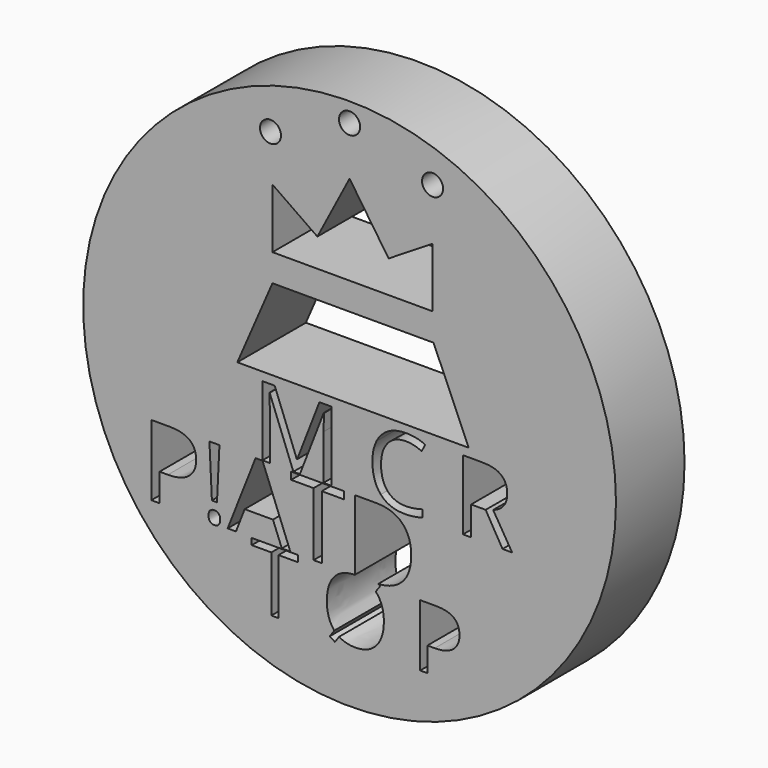
from build123d import *

# Parameters (mm, degrees)
F0_R     = 56.04879104
F0_R_2   = 2.2124122906
F0_R_3   = 2.2219292553
F0_R_4   = 2.2124088317
F1_DEPTH = 18.034


with BuildPart() as f1:
    # F0 (on Front) → F1 (new body)
    with BuildSketch(Plane.XZ):
        Circle(F0_R)
        with BuildLine():
            add(Edge.make_bspline(
                [(-29.3230151163, -31.4044240319), (-29.669589777, -31.0838831485), (-29.669589777, -30.3516831611)],
                knots=[0, 0, 0, 1, 1, 1], degree=2))
            add(Edge.make_bspline(
                [(-29.669589777, -30.3516831611), (-29.669589777, -28.9686387405), (-28.4492564646, -28.9686387405)],
                knots=[0, 0, 0, 1, 1, 1], degree=2))
            add(Edge.make_bspline(
                [(-28.4492564646, -28.9686387405), (-27.8602422525, -28.9686387405), (-27.5397013692, -29.3233489566)],
                knots=[0, 0, 0, 1, 1, 1], degree=2))
            add(Edge.make_bspline(
                [(-27.5397013692, -29.3233489566), (-27.2191604858, -29.6780591727), (-27.2191604858, -30.3516831611)],
                knots=[0, 0, 0, 1, 1, 1], degree=2))
            add(Edge.make_bspline(
                [(-27.2191604858, -30.3516831611), (-27.2191604858, -31.0025275944), (-27.5445827024, -31.3637462548)],
                knots=[0, 0, 0, 1, 1, 1], degree=2))
            add(Edge.make_bspline(
                [(-27.5445827024, -31.3637462548), (-27.870004919, -31.7249649153), (-28.4492564646, -31.7249649153)],
                knots=[0, 0, 0, 1, 1, 1], degree=2))
            add(Edge.make_bspline(
                [(-28.4492564646, -31.7249649153), (-28.9764404556, -31.7249649153), (-29.3230151163, -31.4044240319)],
                knots=[0, 0, 0, 1, 1, 1], degree=2))
        make_face(mode=Mode.SUBTRACT)
        Polygon((-14.9441008471, -32.8867225766), (-14.9441008471, -44.575534761), (-16.459053073, -44.575534761), (-16.459053073, -32.8867225766), (-20.5873692143, -32.8867225766), (-20.5873692143, -31.5400983757), (-10.8157847058, -31.5400983757), (-10.8157847058, -32.8867225766), align=None, mode=Mode.SUBTRACT)
        with BuildLine():
            add(Edge.make_bspline(
                [(-37.853958525, -16.5602896207), (-32.2827301764, -16.5602896207), (-32.2827301764, -20.891659324)],
                knots=[0, 0, 0, 1, 1, 1], degree=2))
            add(Edge.make_bspline(
                [(-32.2827301764, -20.891659324), (-32.2827301764, -23.1500895073), (-33.8236043721, -24.3655414864)],
                knots=[0, 0, 0, 1, 1, 1], degree=2))
            add(Edge.make_bspline(
                [(-33.8236043721, -24.3655414864), (-35.3644785678, -25.5809934655), (-38.2314482963, -25.5809934655)],
                knots=[0, 0, 0, 1, 1, 1], degree=2))
            Line((-38.2314482963, -25.5809934655), (-39.9822198217, -25.5809934655))
            Line((-39.9822198217, -25.5809934655), (-39.9822198217, -31.4288306981))
            Line((-39.9822198217, -31.4288306981), (-41.7102117919, -31.4288306981))
            Line((-41.7102117919, -31.4288306981), (-41.7102117919, -16.5602896207))
            Line((-41.7102117919, -16.5602896207), (-37.853958525, -16.5602896207))
        make_face(mode=Mode.SUBTRACT)
        Polygon((-27.3818715941, -16.5602896207), (-27.8992929185, -27.3317649909), (-28.9666777891, -27.3317649909), (-29.4873533357, -16.5602896207), align=None, mode=Mode.SUBTRACT)
        Polygon((-12.4742798507, -31.4288306981), (-14.2641020421, -31.4288306981), (-16.1157544547, -26.7004458906), (-22.074235241, -26.7004458906), (-23.9031080984, -31.4288306981), (-25.6538796239, -31.4288306981), (-19.7767543917, -16.4984593996), (-18.3221170834, -16.4984593996), align=None, mode=Mode.SUBTRACT)
        Polygon((-5.8551919647, -18.0962824832), (-5.8551919647, -31.4288306981), (-7.5831839349, -31.4288306981), (-7.5831839349, -18.0962824832), (-12.2920434094, -18.0962824832), (-12.2920434094, -16.5602896207), (-1.1463324902, -16.5602896207), (-1.1463324902, -18.0962824832), align=None, mode=Mode.SUBTRACT)
        with BuildLine():
            Line((-10.4570211338, -16.4333749563), (-11.8307485564, -16.4333749563))
            Line((-11.8307485564, -16.4333749563), (-16.8056959981, -3.4343187376))
            Line((-16.8056959981, -3.4343187376), (-16.8859370859, -3.4343187376))
            add(Edge.make_bspline(
                [(-16.8859370859, -3.4343187376), (-16.7447127714, -4.9781572663), (-16.7447127714, -7.1061509139)],
                knots=[0, 0, 0, 1, 1, 1], degree=2))
            Line((-16.7447127714, -7.1061509139), (-16.7447127714, -16.4333749563))
            Line((-16.7447127714, -16.4333749563), (-18.3206477352, -16.4333749563))
            Line((-18.3206477352, -16.4333749563), (-18.3206477352, -1.7685137555))
            Line((-18.3206477352, -1.7685137555), (-15.7529329266, -1.7685137555))
            Line((-15.7529329266, -1.7685137555), (-11.1085787665, -13.8656601476))
            Line((-11.1085787665, -13.8656601476), (-11.0283376787, -13.8656601476))
            Line((-11.0283376787, -13.8656601476), (-6.3454677965, -1.7685137555))
            Line((-6.3454677965, -1.7685137555), (-3.7970108489, -1.7685137555))
            Line((-3.7970108489, -1.7685137555), (-3.7970108489, -16.4333749563))
            Line((-3.7970108489, -16.4333749563), (-5.5013315532, -16.4333749563))
            Line((-5.5013315532, -16.4333749563), (-5.5013315532, -6.9841844605))
            add(Edge.make_bspline(
                [(-5.5013315532, -6.9841844605), (-5.5013315532, -5.3601048441), (-5.3601072387, -3.4535765987)],
                knots=[0, 0, 0, 1, 1, 1], degree=2))
            Line((-5.3601072387, -3.4535765987), (-5.4403483264, -3.4535765987))
            Line((-5.4403483264, -3.4535765987), (-10.4570211338, -16.4333749563))
        make_face(mode=Mode.SUBTRACT)
        with BuildLine():
            add(Edge.make_bspline(
                [(11.0391024112, -18.4819078099), (12.9607206004, -20.403525999), (12.9607206004, -23.8530014952)],
                knots=[0, 0, 0, 1, 1, 1], degree=2))
            add(Edge.make_bspline(
                [(12.9607206004, -23.8530014952), (12.9607206004, -27.5335267652), (10.9626281903, -29.4811787317)],
                knots=[0, 0, 0, 1, 1, 1], degree=2))
            add(Edge.make_bspline(
                [(10.9626281903, -29.4811787317), (9.1859674443, -31.2129889214), (6.0225066822, -31.4049107815)],
                knots=[0, 0, 0, 0.889178467, 0.889178467, 0.889178467], degree=2))
            Line((6.0225066822, -31.4049107815), (6.4392643766, -31.6827492445))
            Line((6.4392643766, -31.6827492445), (5.4949156256, -33.003696289))
            add(Edge.make_bspline(
                [(5.4949156256, -33.003696289), (7.2067260505, -34.8039502525), (7.2067260505, -38.0392719554)],
                knots=[0, 0, 0, 1, 1, 1], degree=2))
            add(Edge.make_bspline(
                [(7.2067260505, -38.0392719554), (7.2067260505, -41.1690320155), (5.6233014075, -42.9621534355)],
                knots=[0, 0, 0, 1, 1, 1], degree=2))
            add(Edge.make_bspline(
                [(5.6233014075, -42.9621534355), (4.0398767645, -44.7552748556), (1.2239486156, -44.7552748556)],
                knots=[0, 0, 0, 1, 1, 1], degree=2))
            add(Edge.make_bspline(
                [(1.2239486156, -44.7552748556), (-0.8701661374, -44.7552748556), (-2.191113182, -43.8622804173)],
                knots=[0, 0, 0, 1, 1, 1], degree=2))
            Line((-2.191113182, -43.8622804173), (-3.0926666724, -45.1204610795))
            Line((-3.0926666724, -45.1204610795), (-4.1625481879, -44.415765788))
            Line((-4.1625481879, -44.415765788), (-3.1982283152, -43.0406114133))
            add(Edge.make_bspline(
                [(-3.1982283152, -43.0406114133), (-4.7845059756, -41.2774466757), (-4.7845059756, -38.0221538512)],
                knots=[0, 0, 0, 1, 1, 1], degree=2))
            add(Edge.make_bspline(
                [(-4.7845059756, -38.0221538512), (-4.7845059756, -34.838186461), (-3.2153464195, -33.0864337929)],
                knots=[0, 0, 0, 1, 1, 1], degree=2))
            add(Edge.make_bspline(
                [(-3.2153464195, -33.0864337929), (-1.686778272, -31.3799958973), (1.0925723602, -31.3358533385)],
                knots=[0, 0, 0, 0.974131752, 0.974131752, 0.974131752], degree=2))
            Line((1.0925723602, -31.3358533385), (1.0925723602, -16.5602896207))
            Line((1.0925723602, -16.5602896207), (5.6484833929, -16.5602896207))
            add(Edge.make_bspline(
                [(5.6484833929, -16.5602896207), (9.1174842221, -16.5602896207), (11.0391024112, -18.4819078099)],
                knots=[0, 0, 0, 1, 1, 1], degree=2))
        make_face(mode=Mode.SUBTRACT)
        with BuildLine():
            add(Edge.make_bspline(
                [(18.2364912212, -31.5400983757), (23.1208569668, -31.5400983757), (23.1208569668, -35.3374645015)],
                knots=[0, 0, 0, 1, 1, 1], degree=2))
            add(Edge.make_bspline(
                [(23.1208569668, -35.3374645015), (23.1208569668, -37.3174585596), (21.7699532398, -38.3830605491)],
                knots=[0, 0, 0, 1, 1, 1], degree=2))
            add(Edge.make_bspline(
                [(21.7699532398, -38.3830605491), (20.4190495129, -39.4486625385), (17.9055412057, -39.4486625385)],
                knots=[0, 0, 0, 1, 1, 1], degree=2))
            Line((17.9055412057, -39.4486625385), (16.3706178581, -39.4486625385))
            Line((16.3706178581, -39.4486625385), (16.3706178581, -44.575534761))
            Line((16.3706178581, -44.575534761), (14.8556656321, -44.575534761))
            Line((14.8556656321, -44.575534761), (14.8556656321, -31.5400983757))
            Line((14.8556656321, -31.5400983757), (18.2364912212, -31.5400983757))
        make_face(mode=Mode.SUBTRACT)
        with BuildLine():
            add(Edge.make_bspline(
                [(15.1719822997, -3.8644109681), (13.5061773176, -3.0844675949), (11.8403723356, -3.0844675949)],
                knots=[0, 0, 0, 1, 1, 1], degree=2))
            add(Edge.make_bspline(
                [(11.8403723356, -3.0844675949), (9.4235107719, -3.0844675949), (8.0241062012, -4.6941038156)],
                knots=[0, 0, 0, 1, 1, 1], degree=2))
            add(Edge.make_bspline(
                [(8.0241062012, -4.6941038156), (6.6247016305, -6.3037400362), (6.6247016305, -9.1025491776)],
                knots=[0, 0, 0, 1, 1, 1], degree=2))
            add(Edge.make_bspline(
                [(6.6247016305, -9.1025491776), (6.6247016305, -11.9783897633), (7.9743567268, -13.5495102618)],
                knots=[0, 0, 0, 1, 1, 1], degree=2))
            add(Edge.make_bspline(
                [(7.9743567268, -13.5495102618), (9.3240118231, -15.1206307603), (11.8211144745, -15.1206307603)],
                knots=[0, 0, 0, 1, 1, 1], degree=2))
            add(Edge.make_bspline(
                [(11.8211144745, -15.1206307603), (13.3553240726, -15.1206307603), (15.3228355447, -14.5685720765)],
                knots=[0, 0, 0, 1, 1, 1], degree=2))
            Line((15.3228355447, -14.5685720765), (15.3228355447, -16.061056309))
            add(Edge.make_bspline(
                [(15.3228355447, -16.061056309), (13.7982548771, -16.6355824974), (11.5611333501, -16.6355824974)],
                knots=[0, 0, 0, 1, 1, 1], degree=2))
            add(Edge.make_bspline(
                [(11.5611333501, -16.6355824974), (8.3226030477, -16.6355824974), (6.5621135821, -14.6680710253)],
                knots=[0, 0, 0, 1, 1, 1], degree=2))
            add(Edge.make_bspline(
                [(6.5621135821, -14.6680710253), (4.8016241164, -12.7005595532), (4.8016241164, -9.0800816731)],
                knots=[0, 0, 0, 1, 1, 1], degree=2))
            add(Edge.make_bspline(
                [(4.8016241164, -9.0800816731), (4.8016241164, -6.8140733545), (5.6489700033, -5.1097526502)],
                knots=[0, 0, 0, 1, 1, 1], degree=2))
            add(Edge.make_bspline(
                [(5.6489700033, -5.1097526502), (6.4963158901, -3.405431946), (8.0963231802, -2.4826594367)],
                knots=[0, 0, 0, 1, 1, 1], degree=2))
            add(Edge.make_bspline(
                [(8.0963231802, -2.4826594367), (9.6963304704, -1.5598869273), (11.8628398401, -1.5598869273)],
                knots=[0, 0, 0, 1, 1, 1], degree=2))
            add(Edge.make_bspline(
                [(11.8628398401, -1.5598869273), (14.1673638809, -1.5598869273), (15.8941520897, -2.4008135271)],
                knots=[0, 0, 0, 1, 1, 1], degree=2))
            Line((15.8941520897, -2.4008135271), (15.1719822997, -3.8644109681))
        make_face(mode=Mode.SUBTRACT)
        with BuildLine():
            Line((28.6268078969, -10.3350522858), (25.5648079876, -10.3350522858))
            Line((25.5648079876, -10.3350522858), (25.5648079876, -16.4333749563))
            Line((25.5648079876, -16.4333749563), (23.8604872834, -16.4333749563))
            Line((23.8604872834, -16.4333749563), (23.8604872834, -1.7685137555))
            Line((23.8604872834, -1.7685137555), (27.8821706024, -1.7685137555))
            add(Edge.make_bspline(
                [(27.8821706024, -1.7685137555), (30.581480795, -1.7685137555), (31.8701526645, -2.802018966)],
                knots=[0, 0, 0, 1, 1, 1], degree=2))
            add(Edge.make_bspline(
                [(31.8701526645, -2.802018966), (33.1588245341, -3.8355241765), (33.1588245341, -5.9121635279)],
                knots=[0, 0, 0, 1, 1, 1], degree=2))
            add(Edge.make_bspline(
                [(33.1588245341, -5.9121635279), (33.1588245341, -8.8201005487), (30.2091621477, -9.8439768286)],
                knots=[0, 0, 0, 1, 1, 1], degree=2))
            Line((30.2091621477, -9.8439768286), (34.1923297446, -16.4333749563))
            Line((34.1923297446, -16.4333749563), (32.1766736198, -16.4333749563))
            Line((32.1766736198, -16.4333749563), (28.6268078969, -10.3350522858))
        make_face(mode=Mode.SUBTRACT)
        with Locations((-16.6387930512, 44.9863672256)):
            Circle(F0_R_2, mode=Mode.SUBTRACT)
        Polygon((-16.2279587239, 17.0496273786), (17.6658798009, 17.0496273786), (25.0608995557, 0), (17.6658798009, 0), (-16.2279587239, 0), (-23.6229784787, 0), align=None, mode=Mode.SUBTRACT)
        Polygon((17.4604617059, 22.801309824), (-16.2279587239, 22.801309824), (-16.2279587239, 35.3317596018), (-6.7787682638, 28.7584085017), (0, 41.6996926069), (8.2166884094, 29.5800771564), (17.4604617059, 35.3317596018), align=None, mode=Mode.SUBTRACT)
        with Locations((0, 51.9705563784)):
            Circle(F0_R_3, mode=Mode.SUBTRACT)
        with Locations((17.4604617059, 46.218868345)):
            Circle(F0_R_4, mode=Mode.SUBTRACT)
        Circle(F0_R)
        with BuildLine():
            add(Edge.make_bspline(
                [(-29.3230151163, -31.4044240319), (-29.669589777, -31.0838831485), (-29.669589777, -30.3516831611)],
                knots=[0, 0, 0, 1, 1, 1], degree=2))
            add(Edge.make_bspline(
                [(-29.669589777, -30.3516831611), (-29.669589777, -28.9686387405), (-28.4492564646, -28.9686387405)],
                knots=[0, 0, 0, 1, 1, 1], degree=2))
            add(Edge.make_bspline(
                [(-28.4492564646, -28.9686387405), (-27.8602422525, -28.9686387405), (-27.5397013692, -29.3233489566)],
                knots=[0, 0, 0, 1, 1, 1], degree=2))
            add(Edge.make_bspline(
                [(-27.5397013692, -29.3233489566), (-27.2191604858, -29.6780591727), (-27.2191604858, -30.3516831611)],
                knots=[0, 0, 0, 1, 1, 1], degree=2))
            add(Edge.make_bspline(
                [(-27.2191604858, -30.3516831611), (-27.2191604858, -31.0025275944), (-27.5445827024, -31.3637462548)],
                knots=[0, 0, 0, 1, 1, 1], degree=2))
            add(Edge.make_bspline(
                [(-27.5445827024, -31.3637462548), (-27.870004919, -31.7249649153), (-28.4492564646, -31.7249649153)],
                knots=[0, 0, 0, 1, 1, 1], degree=2))
            add(Edge.make_bspline(
                [(-28.4492564646, -31.7249649153), (-28.9764404556, -31.7249649153), (-29.3230151163, -31.4044240319)],
                knots=[0, 0, 0, 1, 1, 1], degree=2))
        make_face(mode=Mode.SUBTRACT)
        Polygon((-14.9441008471, -32.8867225766), (-14.9441008471, -44.575534761), (-16.459053073, -44.575534761), (-16.459053073, -32.8867225766), (-20.5873692143, -32.8867225766), (-20.5873692143, -31.5400983757), (-10.8157847058, -31.5400983757), (-10.8157847058, -32.8867225766), align=None, mode=Mode.SUBTRACT)
        with BuildLine():
            add(Edge.make_bspline(
                [(-37.853958525, -16.5602896207), (-32.2827301764, -16.5602896207), (-32.2827301764, -20.891659324)],
                knots=[0, 0, 0, 1, 1, 1], degree=2))
            add(Edge.make_bspline(
                [(-32.2827301764, -20.891659324), (-32.2827301764, -23.1500895073), (-33.8236043721, -24.3655414864)],
                knots=[0, 0, 0, 1, 1, 1], degree=2))
            add(Edge.make_bspline(
                [(-33.8236043721, -24.3655414864), (-35.3644785678, -25.5809934655), (-38.2314482963, -25.5809934655)],
                knots=[0, 0, 0, 1, 1, 1], degree=2))
            Line((-38.2314482963, -25.5809934655), (-39.9822198217, -25.5809934655))
            Line((-39.9822198217, -25.5809934655), (-39.9822198217, -31.4288306981))
            Line((-39.9822198217, -31.4288306981), (-41.7102117919, -31.4288306981))
            Line((-41.7102117919, -31.4288306981), (-41.7102117919, -16.5602896207))
            Line((-41.7102117919, -16.5602896207), (-37.853958525, -16.5602896207))
        make_face(mode=Mode.SUBTRACT)
        Polygon((-27.3818715941, -16.5602896207), (-27.8992929185, -27.3317649909), (-28.9666777891, -27.3317649909), (-29.4873533357, -16.5602896207), align=None, mode=Mode.SUBTRACT)
        Polygon((-12.4742798507, -31.4288306981), (-14.2641020421, -31.4288306981), (-16.1157544547, -26.7004458906), (-22.074235241, -26.7004458906), (-23.9031080984, -31.4288306981), (-25.6538796239, -31.4288306981), (-19.7767543917, -16.4984593996), (-18.3221170834, -16.4984593996), align=None, mode=Mode.SUBTRACT)
        Polygon((-5.8551919647, -18.0962824832), (-5.8551919647, -31.4288306981), (-7.5831839349, -31.4288306981), (-7.5831839349, -18.0962824832), (-12.2920434094, -18.0962824832), (-12.2920434094, -16.5602896207), (-1.1463324902, -16.5602896207), (-1.1463324902, -18.0962824832), align=None, mode=Mode.SUBTRACT)
        with BuildLine():
            Line((-10.4570211338, -16.4333749563), (-11.8307485564, -16.4333749563))
            Line((-11.8307485564, -16.4333749563), (-16.8056959981, -3.4343187376))
            Line((-16.8056959981, -3.4343187376), (-16.8859370859, -3.4343187376))
            add(Edge.make_bspline(
                [(-16.8859370859, -3.4343187376), (-16.7447127714, -4.9781572663), (-16.7447127714, -7.1061509139)],
                knots=[0, 0, 0, 1, 1, 1], degree=2))
            Line((-16.7447127714, -7.1061509139), (-16.7447127714, -16.4333749563))
            Line((-16.7447127714, -16.4333749563), (-18.3206477352, -16.4333749563))
            Line((-18.3206477352, -16.4333749563), (-18.3206477352, -1.7685137555))
            Line((-18.3206477352, -1.7685137555), (-15.7529329266, -1.7685137555))
            Line((-15.7529329266, -1.7685137555), (-11.1085787665, -13.8656601476))
            Line((-11.1085787665, -13.8656601476), (-11.0283376787, -13.8656601476))
            Line((-11.0283376787, -13.8656601476), (-6.3454677965, -1.7685137555))
            Line((-6.3454677965, -1.7685137555), (-3.7970108489, -1.7685137555))
            Line((-3.7970108489, -1.7685137555), (-3.7970108489, -16.4333749563))
            Line((-3.7970108489, -16.4333749563), (-5.5013315532, -16.4333749563))
            Line((-5.5013315532, -16.4333749563), (-5.5013315532, -6.9841844605))
            add(Edge.make_bspline(
                [(-5.5013315532, -6.9841844605), (-5.5013315532, -5.3601048441), (-5.3601072387, -3.4535765987)],
                knots=[0, 0, 0, 1, 1, 1], degree=2))
            Line((-5.3601072387, -3.4535765987), (-5.4403483264, -3.4535765987))
            Line((-5.4403483264, -3.4535765987), (-10.4570211338, -16.4333749563))
        make_face(mode=Mode.SUBTRACT)
        with BuildLine():
            add(Edge.make_bspline(
                [(11.0391024112, -18.4819078099), (12.9607206004, -20.403525999), (12.9607206004, -23.8530014952)],
                knots=[0, 0, 0, 1, 1, 1], degree=2))
            add(Edge.make_bspline(
                [(12.9607206004, -23.8530014952), (12.9607206004, -27.5335267652), (10.9626281903, -29.4811787317)],
                knots=[0, 0, 0, 1, 1, 1], degree=2))
            add(Edge.make_bspline(
                [(10.9626281903, -29.4811787317), (9.1859674443, -31.2129889214), (6.0225066822, -31.4049107815)],
                knots=[0, 0, 0, 0.889178467, 0.889178467, 0.889178467], degree=2))
            Line((6.0225066822, -31.4049107815), (6.4392643766, -31.6827492445))
            Line((6.4392643766, -31.6827492445), (5.4949156256, -33.003696289))
            add(Edge.make_bspline(
                [(5.4949156256, -33.003696289), (7.2067260505, -34.8039502525), (7.2067260505, -38.0392719554)],
                knots=[0, 0, 0, 1, 1, 1], degree=2))
            add(Edge.make_bspline(
                [(7.2067260505, -38.0392719554), (7.2067260505, -41.1690320155), (5.6233014075, -42.9621534355)],
                knots=[0, 0, 0, 1, 1, 1], degree=2))
            add(Edge.make_bspline(
                [(5.6233014075, -42.9621534355), (4.0398767645, -44.7552748556), (1.2239486156, -44.7552748556)],
                knots=[0, 0, 0, 1, 1, 1], degree=2))
            add(Edge.make_bspline(
                [(1.2239486156, -44.7552748556), (-0.8701661374, -44.7552748556), (-2.191113182, -43.8622804173)],
                knots=[0, 0, 0, 1, 1, 1], degree=2))
            Line((-2.191113182, -43.8622804173), (-3.0926666724, -45.1204610795))
            Line((-3.0926666724, -45.1204610795), (-4.1625481879, -44.415765788))
            Line((-4.1625481879, -44.415765788), (-3.1982283152, -43.0406114133))
            add(Edge.make_bspline(
                [(-3.1982283152, -43.0406114133), (-4.7845059756, -41.2774466757), (-4.7845059756, -38.0221538512)],
                knots=[0, 0, 0, 1, 1, 1], degree=2))
            add(Edge.make_bspline(
                [(-4.7845059756, -38.0221538512), (-4.7845059756, -34.838186461), (-3.2153464195, -33.0864337929)],
                knots=[0, 0, 0, 1, 1, 1], degree=2))
            add(Edge.make_bspline(
                [(-3.2153464195, -33.0864337929), (-1.686778272, -31.3799958973), (1.0925723602, -31.3358533385)],
                knots=[0, 0, 0, 0.974131752, 0.974131752, 0.974131752], degree=2))
            Line((1.0925723602, -31.3358533385), (1.0925723602, -16.5602896207))
            Line((1.0925723602, -16.5602896207), (5.6484833929, -16.5602896207))
            add(Edge.make_bspline(
                [(5.6484833929, -16.5602896207), (9.1174842221, -16.5602896207), (11.0391024112, -18.4819078099)],
                knots=[0, 0, 0, 1, 1, 1], degree=2))
        make_face(mode=Mode.SUBTRACT)
        with BuildLine():
            add(Edge.make_bspline(
                [(18.2364912212, -31.5400983757), (23.1208569668, -31.5400983757), (23.1208569668, -35.3374645015)],
                knots=[0, 0, 0, 1, 1, 1], degree=2))
            add(Edge.make_bspline(
                [(23.1208569668, -35.3374645015), (23.1208569668, -37.3174585596), (21.7699532398, -38.3830605491)],
                knots=[0, 0, 0, 1, 1, 1], degree=2))
            add(Edge.make_bspline(
                [(21.7699532398, -38.3830605491), (20.4190495129, -39.4486625385), (17.9055412057, -39.4486625385)],
                knots=[0, 0, 0, 1, 1, 1], degree=2))
            Line((17.9055412057, -39.4486625385), (16.3706178581, -39.4486625385))
            Line((16.3706178581, -39.4486625385), (16.3706178581, -44.575534761))
            Line((16.3706178581, -44.575534761), (14.8556656321, -44.575534761))
            Line((14.8556656321, -44.575534761), (14.8556656321, -31.5400983757))
            Line((14.8556656321, -31.5400983757), (18.2364912212, -31.5400983757))
        make_face(mode=Mode.SUBTRACT)
        with BuildLine():
            add(Edge.make_bspline(
                [(15.1719822997, -3.8644109681), (13.5061773176, -3.0844675949), (11.8403723356, -3.0844675949)],
                knots=[0, 0, 0, 1, 1, 1], degree=2))
            add(Edge.make_bspline(
                [(11.8403723356, -3.0844675949), (9.4235107719, -3.0844675949), (8.0241062012, -4.6941038156)],
                knots=[0, 0, 0, 1, 1, 1], degree=2))
            add(Edge.make_bspline(
                [(8.0241062012, -4.6941038156), (6.6247016305, -6.3037400362), (6.6247016305, -9.1025491776)],
                knots=[0, 0, 0, 1, 1, 1], degree=2))
            add(Edge.make_bspline(
                [(6.6247016305, -9.1025491776), (6.6247016305, -11.9783897633), (7.9743567268, -13.5495102618)],
                knots=[0, 0, 0, 1, 1, 1], degree=2))
            add(Edge.make_bspline(
                [(7.9743567268, -13.5495102618), (9.3240118231, -15.1206307603), (11.8211144745, -15.1206307603)],
                knots=[0, 0, 0, 1, 1, 1], degree=2))
            add(Edge.make_bspline(
                [(11.8211144745, -15.1206307603), (13.3553240726, -15.1206307603), (15.3228355447, -14.5685720765)],
                knots=[0, 0, 0, 1, 1, 1], degree=2))
            Line((15.3228355447, -14.5685720765), (15.3228355447, -16.061056309))
            add(Edge.make_bspline(
                [(15.3228355447, -16.061056309), (13.7982548771, -16.6355824974), (11.5611333501, -16.6355824974)],
                knots=[0, 0, 0, 1, 1, 1], degree=2))
            add(Edge.make_bspline(
                [(11.5611333501, -16.6355824974), (8.3226030477, -16.6355824974), (6.5621135821, -14.6680710253)],
                knots=[0, 0, 0, 1, 1, 1], degree=2))
            add(Edge.make_bspline(
                [(6.5621135821, -14.6680710253), (4.8016241164, -12.7005595532), (4.8016241164, -9.0800816731)],
                knots=[0, 0, 0, 1, 1, 1], degree=2))
            add(Edge.make_bspline(
                [(4.8016241164, -9.0800816731), (4.8016241164, -6.8140733545), (5.6489700033, -5.1097526502)],
                knots=[0, 0, 0, 1, 1, 1], degree=2))
            add(Edge.make_bspline(
                [(5.6489700033, -5.1097526502), (6.4963158901, -3.405431946), (8.0963231802, -2.4826594367)],
                knots=[0, 0, 0, 1, 1, 1], degree=2))
            add(Edge.make_bspline(
                [(8.0963231802, -2.4826594367), (9.6963304704, -1.5598869273), (11.8628398401, -1.5598869273)],
                knots=[0, 0, 0, 1, 1, 1], degree=2))
            add(Edge.make_bspline(
                [(11.8628398401, -1.5598869273), (14.1673638809, -1.5598869273), (15.8941520897, -2.4008135271)],
                knots=[0, 0, 0, 1, 1, 1], degree=2))
            Line((15.8941520897, -2.4008135271), (15.1719822997, -3.8644109681))
        make_face(mode=Mode.SUBTRACT)
        with BuildLine():
            Line((28.6268078969, -10.3350522858), (25.5648079876, -10.3350522858))
            Line((25.5648079876, -10.3350522858), (25.5648079876, -16.4333749563))
            Line((25.5648079876, -16.4333749563), (23.8604872834, -16.4333749563))
            Line((23.8604872834, -16.4333749563), (23.8604872834, -1.7685137555))
            Line((23.8604872834, -1.7685137555), (27.8821706024, -1.7685137555))
            add(Edge.make_bspline(
                [(27.8821706024, -1.7685137555), (30.581480795, -1.7685137555), (31.8701526645, -2.802018966)],
                knots=[0, 0, 0, 1, 1, 1], degree=2))
            add(Edge.make_bspline(
                [(31.8701526645, -2.802018966), (33.1588245341, -3.8355241765), (33.1588245341, -5.9121635279)],
                knots=[0, 0, 0, 1, 1, 1], degree=2))
            add(Edge.make_bspline(
                [(33.1588245341, -5.9121635279), (33.1588245341, -8.8201005487), (30.2091621477, -9.8439768286)],
                knots=[0, 0, 0, 1, 1, 1], degree=2))
            Line((30.2091621477, -9.8439768286), (34.1923297446, -16.4333749563))
            Line((34.1923297446, -16.4333749563), (32.1766736198, -16.4333749563))
            Line((32.1766736198, -16.4333749563), (28.6268078969, -10.3350522858))
        make_face(mode=Mode.SUBTRACT)
        with Locations((-16.6387930512, 44.9863672256)):
            Circle(F0_R_2, mode=Mode.SUBTRACT)
        Polygon((-16.2279587239, 17.0496273786), (17.6658798009, 17.0496273786), (25.0608995557, 0), (17.6658798009, 0), (-16.2279587239, 0), (-23.6229784787, 0), align=None, mode=Mode.SUBTRACT)
        Polygon((17.4604617059, 22.801309824), (-16.2279587239, 22.801309824), (-16.2279587239, 35.3317596018), (-6.7787682638, 28.7584085017), (0, 41.6996926069), (8.2166884094, 29.5800771564), (17.4604617059, 35.3317596018), align=None, mode=Mode.SUBTRACT)
        with Locations((0, 51.9705563784)):
            Circle(F0_R_3, mode=Mode.SUBTRACT)
        with Locations((17.4604617059, 46.218868345)):
            Circle(F0_R_4, mode=Mode.SUBTRACT)
    extrude(amount=F1_DEPTH)


solid = f1.part
